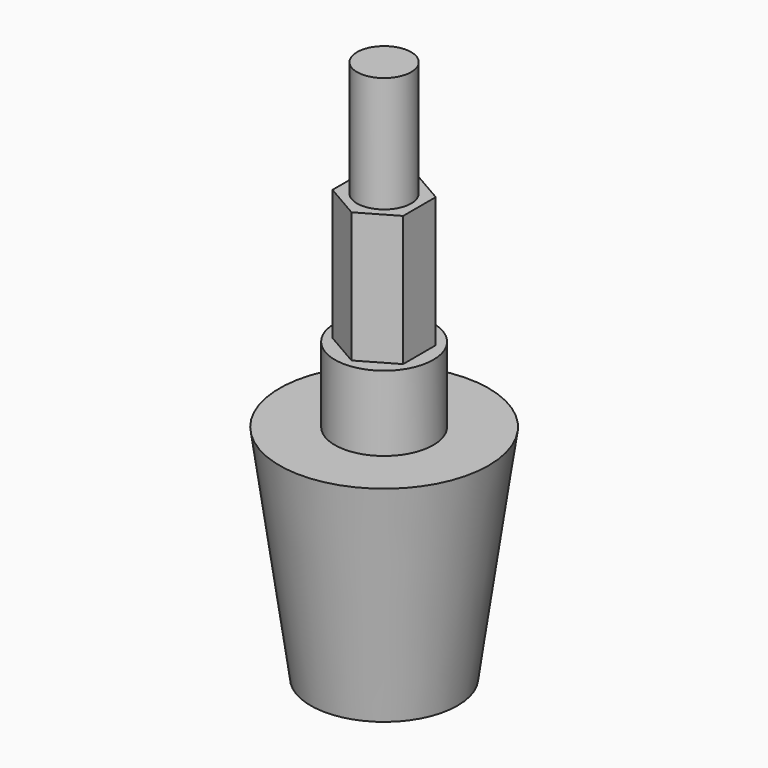
from build123d import *

# Parameters (mm, degrees)
F0_R     = 8.5
F1_DEPTH = 18
F1_TAPER = 8
F2_R     = 4
F3_DEPTH = 6.1
F5_DEPTH = 10.6
F6_R     = 2.2
F7_DEPTH = 9.4


with BuildPart() as f1:
    # F0 (on Top) → F1 (new body)
    with BuildSketch(Plane.XY):
        Circle(F0_R)
    extrude(amount=-F1_DEPTH, taper=F1_TAPER)

    # F2 (on Top) → F3 (join)
    with BuildSketch(Plane.XY):
        Circle(F2_R)
    extrude(amount=F3_DEPTH)

    # F4 (on face) → F5 (join)
    with BuildSketch(Plane.XY.offset(6.1)):
        Polygon((0, -3.3139905451), (2.87, -1.6569952726), (2.87, 1.6569952726), (0, 3.3139905451), (-2.87, 1.6569952726), (-2.87, -1.6569952726), align=None)
    extrude(amount=F5_DEPTH)

    # F6 (on face) → F7 (join)
    with BuildSketch(Plane.XY.offset(16.7)):
        Circle(F6_R)
    extrude(amount=F7_DEPTH)


solid = f1.part
